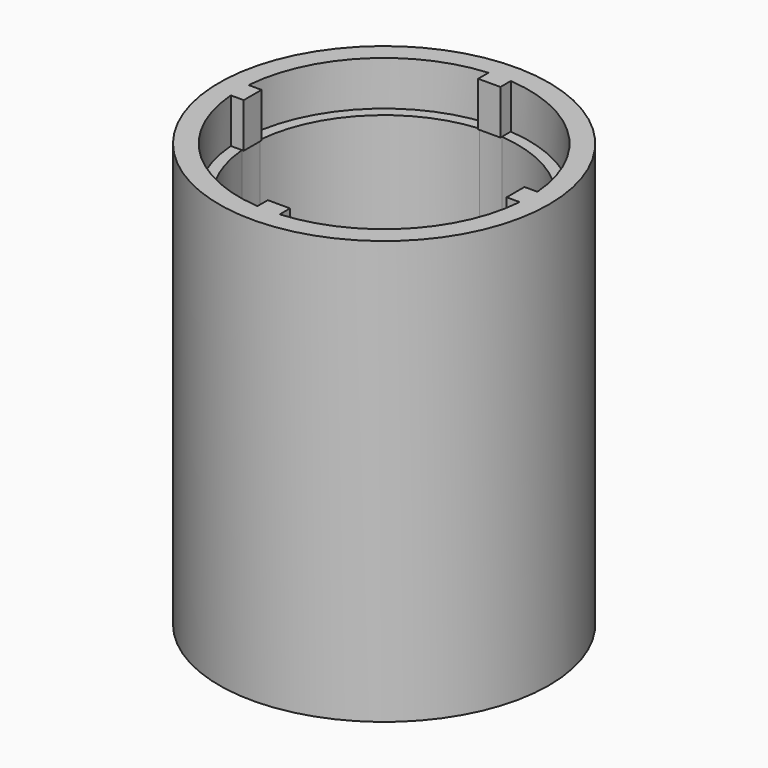
from build123d import *

# Parameters (mm, degrees)
F0_R     = 37
F1_DEPTH = 10
F2_R     = 37
F3_DEPTH = 75
F4_R     = 37
F4_R_2   = 30
F4_W     = 13
F4_H     = 13
F5_DEPTH = 10


with BuildPart() as f1:
    # F0 (on Top) → F1 (new body)
    with BuildSketch(Plane.XY):
        Circle(F0_R)
        with BuildLine():
            ThreePointArc((32.403703492, 2.5), (32.47591695, 1.250926958), (32.5, 0))
            ThreePointArc((32.5, 0), (32.47591695, -1.250926958), (32.403703492, -2.5))
            ThreePointArc((32.403703492, -2.5), (22.9809703886, -22.9809703886), (2.5, -32.403703492))
            ThreePointArc((2.5, -32.403703492), (0, -32.5), (-2.5, -32.403703492))
            ThreePointArc((-2.5, -32.403703492), (-22.9809703886, -22.9809703886), (-32.403703492, -2.5))
            ThreePointArc((-32.403703492, -2.5), (-32.5, 0), (-32.403703492, 2.5))
            ThreePointArc((-32.403703492, 2.5), (-22.9809703886, 22.9809703886), (-2.5, 32.403703492))
            ThreePointArc((-2.5, 32.403703492), (0, 32.5), (2.5, 32.403703492))
            ThreePointArc((2.5, 32.403703492), (22.9809703886, 22.9809703886), (32.403703492, 2.5))
        make_face(mode=Mode.SUBTRACT)
        with BuildLine():
            Line((2.5, 29.5), (2.5, 32.403703492))
            ThreePointArc((2.5, 32.403703492), (0, 32.5), (-2.5, 32.403703492))
            Line((-2.5, 32.403703492), (-2.5, 29.5))
            Line((-2.5, 29.5), (2.5, 29.5))
        make_face()
        with BuildLine():
            ThreePointArc((32.403703492, -2.5), (32.47591695, -1.250926958), (32.5, 0))
            ThreePointArc((32.5, 0), (32.47591695, 1.250926958), (32.403703492, 2.5))
            Line((32.403703492, 2.5), (29.5, 2.5))
            Line((29.5, 2.5), (29.5, -2.5))
            Line((29.5, -2.5), (32.403703492, -2.5))
        make_face()
        with BuildLine():
            ThreePointArc((-2.5, -32.403703492), (0, -32.5), (2.5, -32.403703492))
            Line((2.5, -32.403703492), (2.5, -29.5))
            Line((2.5, -29.5), (-2.5, -29.5))
            Line((-2.5, -29.5), (-2.5, -32.403703492))
        make_face()
        with BuildLine():
            Line((-29.5, 2.5), (-32.403703492, 2.5))
            ThreePointArc((-32.403703492, 2.5), (-32.5, 0), (-32.403703492, -2.5))
            Line((-32.403703492, -2.5), (-29.5, -2.5))
            Line((-29.5, -2.5), (-29.5, 2.5))
        make_face()
    extrude(amount=-F1_DEPTH)

    # F2 (on face) → F3 (join)
    with BuildSketch(Plane(origin=(0, 0, -10), x_dir=(1, 0, 0), z_dir=(0, 0, -1))):
        Circle(F2_R)
        with BuildLine():
            ThreePointArc((29.8956518578, 2.5), (29.9739016123, 1.2510883797), (30, 0))
            ThreePointArc((30, 0), (29.9739016123, -1.2510883797), (29.8956518578, -2.5))
            Line((29.8956518578, -2.5), (32.403703492, -2.5))
            ThreePointArc((32.403703492, -2.5), (22.9809703886, -22.9809703886), (2.5, -32.403703492))
            Line((2.5, -32.403703492), (2.5, -29.8956518578))
            ThreePointArc((2.5, -29.8956518578), (0, -30), (-2.5, -29.8956518578))
            Line((-2.5, -29.8956518578), (-2.5, -32.403703492))
            ThreePointArc((-2.5, -32.403703492), (-22.9809703886, -22.9809703886), (-32.403703492, -2.5))
            Line((-32.403703492, -2.5), (-29.8956518578, -2.5))
            ThreePointArc((-29.8956518578, -2.5), (-30, 0), (-29.8956518578, 2.5))
            Line((-29.8956518578, 2.5), (-32.403703492, 2.5))
            ThreePointArc((-32.403703492, 2.5), (-22.9809703886, 22.9809703886), (-2.5, 32.403703492))
            Line((-2.5, 32.403703492), (-2.5, 29.8956518578))
            ThreePointArc((-2.5, 29.8956518578), (0, 30), (2.5, 29.8956518578))
            Line((2.5, 29.8956518578), (2.5, 32.403703492))
            ThreePointArc((2.5, 32.403703492), (22.9809703886, 22.9809703886), (32.403703492, 2.5))
            Line((32.403703492, 2.5), (29.8956518578, 2.5))
        make_face(mode=Mode.SUBTRACT)
        with BuildLine():
            Line((32.403703492, -2.5), (29.8956518578, -2.5))
            ThreePointArc((29.8956518578, -2.5), (21.2132034356, -21.2132034356), (2.5, -29.8956518578))
            Line((2.5, -29.8956518578), (2.5, -32.403703492))
            ThreePointArc((2.5, -32.403703492), (22.9809703886, -22.9809703886), (32.403703492, -2.5))
        make_face()
        with BuildLine():
            Line((-2.5, -32.403703492), (-2.5, -29.8956518578))
            ThreePointArc((-2.5, -29.8956518578), (-21.2132034356, -21.2132034356), (-29.8956518578, -2.5))
            Line((-29.8956518578, -2.5), (-32.403703492, -2.5))
            ThreePointArc((-32.403703492, -2.5), (-22.9809703886, -22.9809703886), (-2.5, -32.403703492))
        make_face()
        with BuildLine():
            ThreePointArc((-29.8956518578, 2.5), (-21.2132034356, 21.2132034356), (-2.5, 29.8956518578))
            Line((-2.5, 29.8956518578), (-2.5, 32.403703492))
            ThreePointArc((-2.5, 32.403703492), (-22.9809703886, 22.9809703886), (-32.403703492, 2.5))
            Line((-32.403703492, 2.5), (-29.8956518578, 2.5))
        make_face()
        with BuildLine():
            ThreePointArc((2.5, 29.8956518578), (21.2132034356, 21.2132034356), (29.8956518578, 2.5))
            Line((29.8956518578, 2.5), (32.403703492, 2.5))
            ThreePointArc((32.403703492, 2.5), (22.9809703886, 22.9809703886), (2.5, 32.403703492))
            Line((2.5, 32.403703492), (2.5, 29.8956518578))
        make_face()
    extrude(amount=F3_DEPTH)

    # F4 (on face) → F5 (join)
    with BuildSketch(Plane(origin=(0, 0, -85), x_dir=(1, 0, 0), z_dir=(0, 0, -1))):
        Circle(F4_R)
        Circle(F4_R_2, mode=Mode.SUBTRACT)
        Circle(F4_R_2)
        Rectangle(F4_W, F4_H, mode=Mode.SUBTRACT)
    extrude(amount=F5_DEPTH)


solid = f1.part
